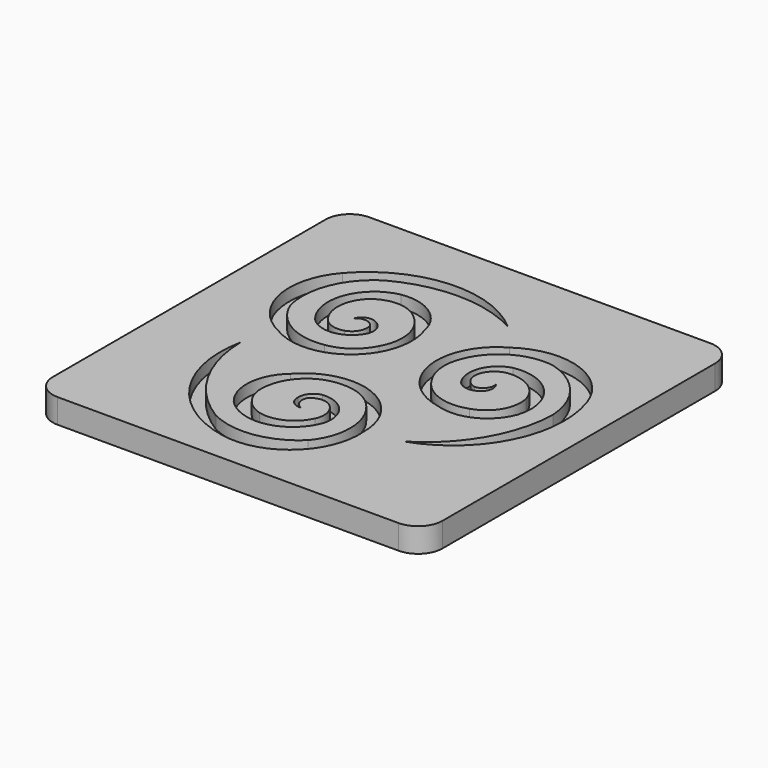
from build123d import *

# Parameters (mm, degrees)
F1_DEPTH = 6.35
F3_DEPTH = 3.175


with BuildPart() as f1:
    # F0 (on Top) → F1 (new body)
    with BuildSketch(Plane.XY):
        with BuildLine():
            Line((44.45, 50.8), (-44.45, 50.8))
            ThreePointArc((-44.45, 50.8), (-48.940128, 48.940128), (-50.8, 44.45))
            Line((-50.8, 44.45), (-50.8, -44.45))
            ThreePointArc((-50.8, -44.45), (-48.940128, -48.940128), (-44.45, -50.8))
            Line((-44.45, -50.8), (44.45, -50.8))
            ThreePointArc((44.45, -50.8), (48.940128, -48.940128), (50.8, -44.45))
            Line((50.8, -44.45), (50.8, 44.45))
            ThreePointArc((50.8, 44.45), (48.940128, 48.940128), (44.45, 50.8))
        make_face()
    extrude(amount=F1_DEPTH)

    # F2 (on face) → F3 (cut)
    with BuildSketch(Plane.XY.offset(6.35)):
        with BuildLine():
            ThreePointArc((-24.847122, 30.86718), (-8.580237, 34.973614), (7.661782, 30.769903))
            ThreePointArc((7.661782, 30.769903), (-13.391629, 38.003846), (-33.371605, 28.186688))
            ThreePointArc((-33.371605, 28.186688), (-37.418416, 12.612971), (-27.426904, 0))
            ThreePointArc((-27.426904, 0), (-9.473393, 1.300027), (-4.446225, 18.584304))
            ThreePointArc((-4.446225, 18.584304), (-9.355194, 26.176966), (-18.170381, 28.186688))
            ThreePointArc((-18.170381, 28.186688), (-27.074817, 20.28871), (-24.843689, 8.597298))
            ThreePointArc((-24.843689, 8.597298), (-18.2062, 6.472593), (-12.664793, 10.699108))
            ThreePointArc((-12.664793, 10.699108), (-12.67809, 13.468506), (-14.519384, 15.537172))
            ThreePointArc((-14.519384, 15.537172), (-17.08667, 15.877181), (-18.994594, 14.12607))
            ThreePointArc((-18.994594, 14.12607), (-16.63705, 14.888107), (-14.519384, 13.601947))
            ThreePointArc((-14.519384, 13.601947), (-14.784471, 10.552305), (-17.140003, 8.597298))
            ThreePointArc((-17.140003, 8.597298), (-20.512291, 8.645462), (-23.187581, 10.699108))
            ThreePointArc((-23.187581, 10.699108), (-24.847122, 16.641338), (-22.353067, 22.284373))
            ThreePointArc((-22.353067, 22.284373), (-16.15161, 24.669828), (-10.003858, 22.149192))
            ThreePointArc((-10.003858, 22.149192), (-6.096197, 15.378887), (-7.423557, 7.675318))
            ThreePointArc((-7.423557, 7.675318), (-11.107583, 3.292778), (-16.414292, 1.143932))
            ThreePointArc((-16.414292, 1.143932), (-26.36106, 2.956962), (-32.86371, 10.699108))
            ThreePointArc((-32.86371, 10.699108), (-32.077882, 22.064039), (-24.847122, 30.86718))
        make_face()
        with BuildLine():
            ThreePointArc((-14.179834, -19.738191), (-10.270408, -12.968905), (-2.935242, -10.266648))
            ThreePointArc((-2.935242, -10.266648), (2.702162, -11.265838), (7.216472, -14.78716))
            ThreePointArc((7.216472, -14.78716), (10.619726, -24.307829), (7.166156, -33.810362))
            ThreePointArc((7.166156, -33.810362), (-3.069077, -38.81228), (-14.308201, -36.951829))
            ThreePointArc((-14.308201, -36.951829), (-25.997919, -24.91751), (-30.478409, -8.749654))
            ThreePointArc((-30.478409, -8.749654), (-26.216482, -30.599414), (-7.724586, -42.994002))
            ThreePointArc((-7.724586, -42.994002), (7.786055, -38.711784), (13.713452, -23.752396))
            ThreePointArc((13.713452, -23.752396), (3.61084, -8.854213), (-13.871366, -13.142696))
            ThreePointArc((-13.871366, -13.142696), (-17.992321, -21.190319), (-15.325198, -29.829356))
            ThreePointArc((-15.325198, -29.829356), (-4.033129, -33.591834), (4.976366, -25.813915))
            ThreePointArc((4.976366, -25.813915), (3.49767, -19.003328), (-2.933303, -16.317587))
            ThreePointArc((-2.933303, -16.317587), (-5.325023, -17.713801), (-6.195893, -20.342741))
            ThreePointArc((-6.195893, -20.342741), (-5.206707, -22.736081), (-2.736238, -23.512836))
            ThreePointArc((-2.736238, -23.512836), (-4.574954, -21.852161), (-4.519939, -19.375129))
            ThreePointArc((-4.519939, -19.375129), (-1.746329, -18.07988), (1.124523, -19.142327))
            ThreePointArc((1.124523, -19.142327), (2.768956, -22.086896), (2.328091, -25.430589))
            ThreePointArc((2.328091, -25.430589), (-1.98826, -29.838908), (-8.1223, -30.500511))
            ThreePointArc((-8.1223, -30.500511), (-13.288892, -26.322619), (-14.179834, -19.738191))
        make_face()
        with BuildLine():
            ThreePointArc((24.183692, -2.411001), (16.366605, -2.409982), (10.358799, 2.59133))
            ThreePointArc((10.358799, 2.59133), (8.405421, 7.97306), (9.19782, 13.643228))
            ThreePointArc((9.19782, 13.643228), (15.741335, 21.350867), (25.697555, 23.111254))
            ThreePointArc((25.697555, 23.111254), (35.146959, 16.748241), (39.155323, 6.084649))
            ThreePointArc((39.155323, 6.084649), (34.578156, -10.056104), (22.816627, -22.020249))
            ThreePointArc((22.816627, -22.020249), (39.60811, -7.404432), (41.096191, 14.807314))
            ThreePointArc((41.096191, 14.807314), (29.632361, 26.098813), (13.713452, 23.752396))
            ThreePointArc((13.713452, 23.752396), (5.862553, 7.554185), (18.317592, -5.441608))
            ThreePointArc((18.317592, -5.441608), (27.347515, -4.986647), (33.495579, 1.642667))
            ThreePointArc((33.495579, 1.642667), (31.107946, 13.303124), (19.867323, 17.216617))
            ThreePointArc((19.867323, 17.216617), (14.70853, 12.530736), (15.598096, 5.618478))
            ThreePointArc((15.598096, 5.618478), (18.003113, 4.245295), (20.715277, 4.80557))
            ThreePointArc((20.715277, 4.80557), (22.293377, 6.8589), (21.730832, 9.386766))
            ThreePointArc((21.730832, 9.386766), (21.212004, 6.964054), (19.039323, 5.773182))
            ThreePointArc((19.039323, 5.773182), (16.5308, 7.527575), (16.01548, 10.545029))
            ThreePointArc((16.01548, 10.545029), (17.743335, 13.441434), (20.85949, 14.73148))
            ThreePointArc((20.85949, 14.73148), (26.835382, 13.19757), (30.475367, 8.216137))
            ThreePointArc((30.475367, 8.216137), (29.440503, 1.652791), (24.183692, -2.411001))
        make_face()
    extrude(amount=-F3_DEPTH, mode=Mode.SUBTRACT)


solid = f1.part
